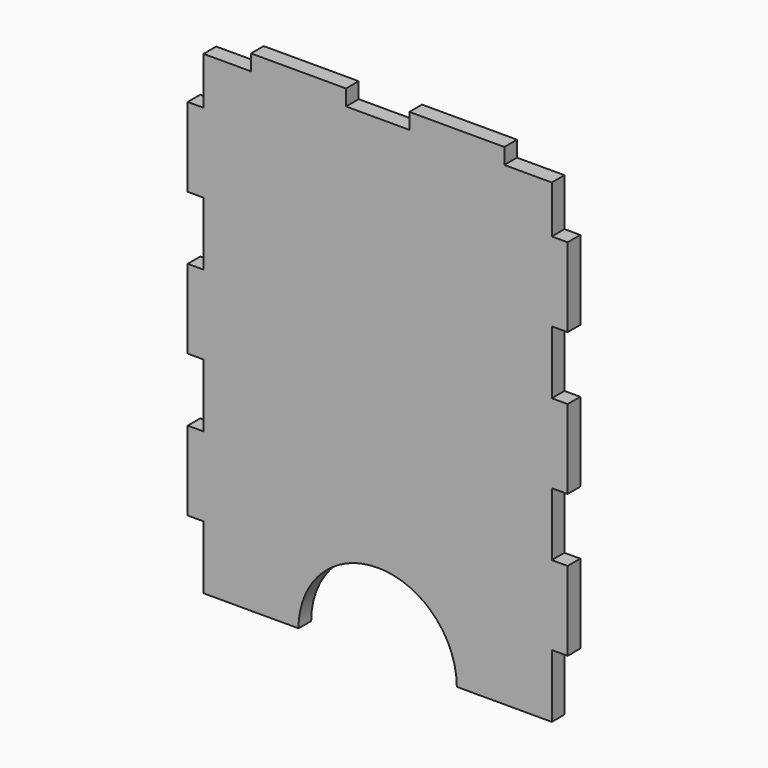
from build123d import *

# Parameters (mm, degrees)
F0_W     = 76.2
F0_H     = 98.425
F1_DEPTH = 3.175
F2_W     = 12.7
F2_H     = 3.175
F3_DEPTH = 3.176
F4_W     = 3.175
F4_H     = 12.7
F5_DEPTH = 3.176
F7_DEPTH = 3.176


with BuildPart() as f1:
    # F0 (on Front) → F1 (new body)
    with BuildSketch(Plane.XZ):
        Rectangle(F0_W, F0_H)
    extrude(amount=F1_DEPTH)

    # F2 (on face) → F3 (cut, through all)
    with BuildSketch(Plane.XZ.offset(3.175)):
        with Locations((-31.75, 47.625)):
            Rectangle(F2_W, F2_H)
        with Locations((0, 47.625)):
            Rectangle(F2_W, F2_H)
        with Locations((31.75, 47.625)):
            Rectangle(F2_W, F2_H)
    extrude(amount=-F3_DEPTH, mode=Mode.SUBTRACT)

    # F4 (on face) → F5 (cut, through all)
    with BuildSketch(Plane.XZ.offset(3.175)):
        with Locations((-36.5125, 42.8625)):
            Rectangle(F4_W, F4_H)
        with Locations((-36.5125, 14.2875)):
            Rectangle(F4_W, F4_H)
        with Locations((-36.5125, -14.2875)):
            Rectangle(F4_W, F4_H)
        with Locations((-36.5125, -42.8625)):
            Rectangle(F4_W, F4_H)
        with Locations((36.5125, -42.8625)):
            Rectangle(F4_W, F4_H)
        with Locations((36.5125, 14.2875)):
            Rectangle(F4_W, F4_H)
        with Locations((36.5125, -14.2875)):
            Rectangle(F4_W, F4_H)
        with Locations((36.5125, 42.8625)):
            Rectangle(F4_W, F4_H)
    extrude(amount=-F5_DEPTH, mode=Mode.SUBTRACT)

    # F6 (on face) → F7 (cut, through all)
    with BuildSketch(Plane.XZ.offset(3.175)):
        with BuildLine():
            add(Edge.make_bspline(
                [(15.875, -49.2125), (15.875, -21.716193), (-7.9375, -35.464347), (-31.75, -49.2125), (-7.9375, -62.960653), (15.875, -76.708807), (15.875, -49.2125)],
                knots=[0, 0, 0, 2.094395, 2.094395, 4.18879, 4.18879, 6.283185, 6.283185, 6.283185], degree=2, weights=[1, 0.5, 1, 0.5, 1, 0.5, 1]))
        make_face()
    extrude(amount=-F7_DEPTH, mode=Mode.SUBTRACT)


solid = f1.part
